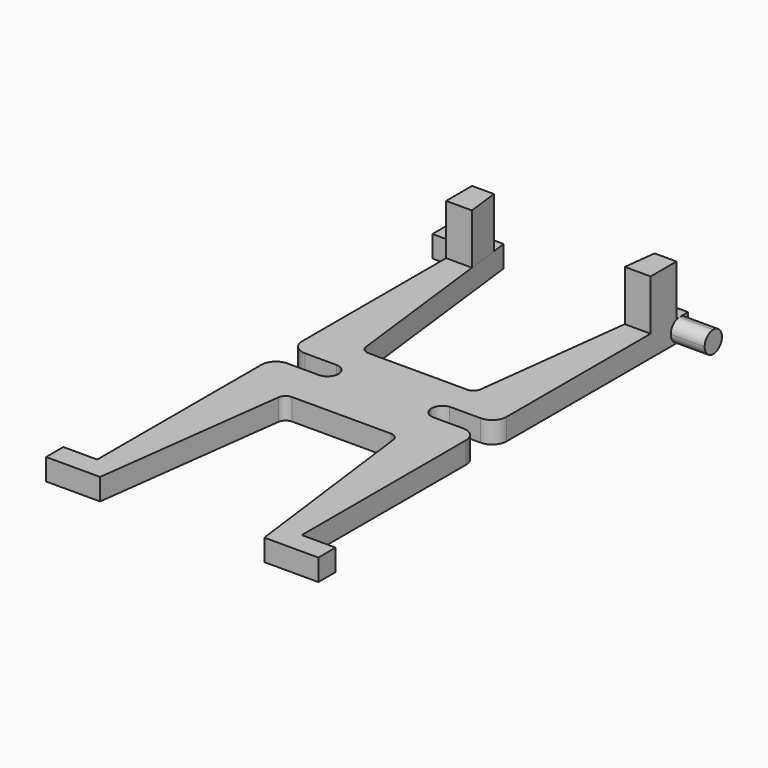
from build123d import *

# Parameters (mm, degrees)
F1_DEPTH = 3
F3_DEPTH = 7
F5_DEPTH = 4.7


with BuildPart() as f1:
    # F0 (on Top) → F1 (new body)
    with BuildSketch(Plane.XY):
        with BuildLine():
            Line((16.134871, -36.562502), (16.134871, -33.562502))
            Line((16.134871, -33.562502), (11.434871, -33.562502))
            Line((11.434871, -33.562502), (11.434871, -5.062502))
            ThreePointArc((11.434871, -5.062502), (10.849085, -3.648289), (9.434871, -3.062502))
            Line((9.434871, -3.062502), (5.084871, -3.062502))
            ThreePointArc((5.084871, -3.062502), (3.827619, -1.537502), (5.084871, -0.012502))
            Line((5.084871, -0.012502), (9.434871, -0.012502))
            ThreePointArc((9.434871, -0.012502), (10.849085, 0.573284), (11.434871, 1.987498))
            Line((11.434871, 1.987498), (11.434871, 30.487498))
            Line((11.434871, 30.487498), (16.134871, 30.487498))
            Line((16.134871, 30.487498), (16.134871, 33.487498))
            Line((16.134871, 33.487498), (8.634871, 33.487498))
            Line((8.634871, 33.487498), (5.20566, 5.305176))
            ThreePointArc((5.20566, 5.305176), (4.833466, 4.596348), (4.084871, 4.312498))
            Line((4.084871, 4.312498), (-9.615129, 4.312498))
            ThreePointArc((-9.615129, 4.312498), (-10.363724, 4.596348), (-10.735917, 5.305176))
            Line((-10.735917, 5.305176), (-14.165129, 33.487498))
            Line((-14.165129, 33.487498), (-21.665129, 33.487498))
            Line((-21.665129, 33.487498), (-21.665129, 30.487498))
            Line((-21.665129, 30.487498), (-16.965129, 30.487498))
            Line((-16.965129, 30.487498), (-16.965129, 1.987498))
            ThreePointArc((-16.965129, 1.987498), (-16.379342, 0.573284), (-14.965129, -0.012502))
            Line((-14.965129, -0.012502), (-10.615129, -0.012502))
            ThreePointArc((-10.615129, -0.012502), (-9.090129, -1.537502), (-10.615129, -3.062502))
            Line((-10.615129, -3.062502), (-14.965129, -3.062502))
            ThreePointArc((-14.965129, -3.062502), (-16.379342, -3.648289), (-16.965129, -5.062502))
            Line((-16.965129, -5.062502), (-16.965129, -33.562502))
            Line((-16.965129, -33.562502), (-21.665129, -33.562502))
            Line((-21.665129, -33.562502), (-21.665129, -36.562502))
            Line((-21.665129, -36.562502), (-14.165129, -36.562502))
            Line((-14.165129, -36.562502), (-10.742474, -9.904361))
            ThreePointArc((-10.742474, -9.904361), (-10.36591, -9.195764), (-9.615129, -8.912502))
            Line((-9.615129, -8.912502), (4.084871, -8.912502))
            ThreePointArc((4.084871, -8.912502), (4.835653, -9.195764), (5.212216, -9.904361))
            Line((5.212216, -9.904361), (8.634871, -36.562502))
            Line((8.634871, -36.562502), (16.134871, -36.562502))
        make_face()
    extrude(amount=F1_DEPTH)

    # F2 (on face) → F3 (join)
    with BuildSketch(Plane.XY.offset(3)):
        Polygon((-13.92177, 31.487498), (-16.965129, 31.487498), (-16.965129, 26.987498), (-13.374212, 26.987498), align=None)
        Polygon((11.434871, 26.987498), (11.434871, 31.487498), (8.391512, 31.487498), (7.843954, 26.987498), align=None)
    extrude(amount=F3_DEPTH)

    # F4 (on face) → F5 (cut)
    with BuildSketch(Plane.YZ.offset(16.134871)):
        with BuildLine():
            ThreePointArc((30.487498, 1.5), (30.926837, 2.56066), (31.987498, 3))
            Line((31.987498, 3), (30.487498, 3))
            Line((30.487498, 3), (30.487498, 1.5))
        make_face()
        with BuildLine():
            Line((30.487498, 0), (31.987498, 0))
            ThreePointArc((31.987498, 0), (30.926837, 0.43934), (30.487498, 1.5))
            Line((30.487498, 1.5), (30.487498, 0))
        make_face()
        with BuildLine():
            Line((33.487498, 0), (33.487498, 1.5))
            ThreePointArc((33.487498, 1.5), (33.048158, 0.43934), (31.987498, 0))
            Line((31.987498, 0), (33.487498, 0))
        make_face()
        with BuildLine():
            ThreePointArc((31.987498, 3), (33.048158, 2.56066), (33.487498, 1.5))
            Line((33.487498, 1.5), (33.487498, 3))
            Line((33.487498, 3), (31.987498, 3))
        make_face()
    extrude(amount=-F5_DEPTH, mode=Mode.SUBTRACT)


solid = f1.part
